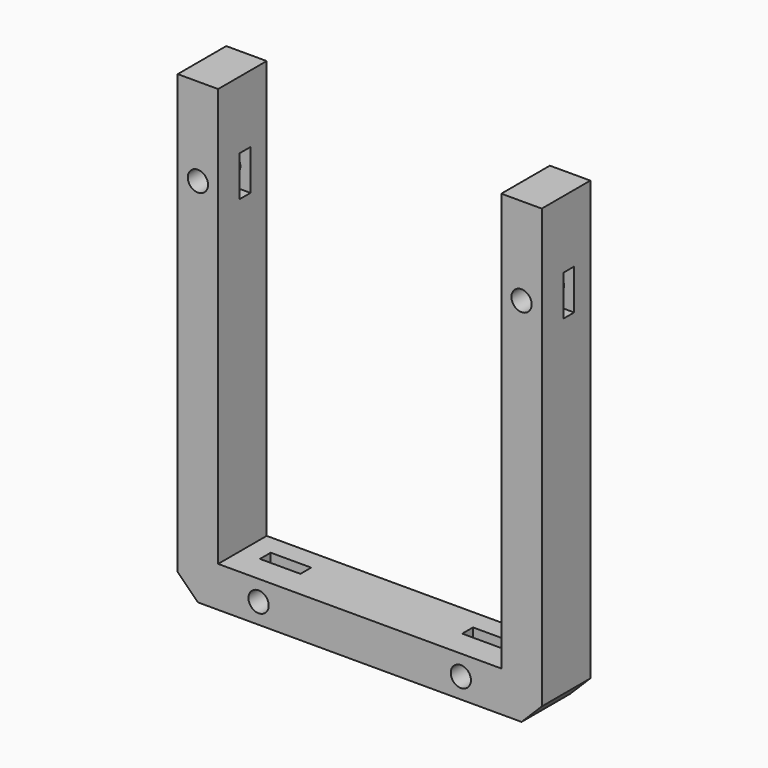
from build123d import *

# Parameters (mm, degrees)
BOX905_W               = 6
BOX905_H               = 6
BOX905_DEPTH           = 2
BOX906_W               = 6
BOX906_H               = 6
BOX906_DEPTH           = 2
BOX907_W               = 6
BOX907_H               = 6
BOX907_DEPTH           = 2
BOX904_W               = 7
BOX904_H               = 6
BOX904_DEPTH           = 2
CYLINDER2651_R         = 1.5
CYLINDER2651_DEPTH     = 60
CYLINDER2652_R         = 1.5
CYLINDER2652_DEPTH     = 60
CYLINDER2653_R         = 1.5
CYLINDER2653_DEPTH     = 60
CYLINDER2650_R         = 1.5
CYLINDER2650_DEPTH     = 60
BOX894_W               = 42
BOX894_H               = 64
BOX894_DEPTH           = 50
BOX893_W               = 54
BOX893_H               = 68
BOX893_DEPTH           = 9
CHAMFER127_SIZE        = 3
CUT989_ROLL_ANGLE      = -90
CUT989_PLACEMENT_ANGLE = 180


with BuildPart() as krychle904:
    # Box905 → Box905 (new body)
    with BuildSketch(Plane(origin=(-18, 122, -48), x_dir=(1, 0, 0), z_dir=(0, 0, 1))):
        with Locations((3, 3)):
            Rectangle(BOX905_W, BOX905_H)
    extrude(amount=BOX905_DEPTH)


with BuildPart() as krychle905:
    # Box906 → Box906 (new body)
    with BuildSketch(Plane(origin=(21, 70, -48), x_dir=(1, 0, 0), z_dir=(0, 0, 1))):
        with Locations((3, 3)):
            Rectangle(BOX906_W, BOX906_H)
    extrude(amount=BOX906_DEPTH)


with BuildPart() as krychle906:
    # Box907 → Box907 (new body)
    with BuildSketch(Plane(origin=(12, 122, -48), x_dir=(1, 0, 0), z_dir=(0, 0, 1))):
        with Locations((3, 3)):
            Rectangle(BOX907_W, BOX907_H)
    extrude(amount=BOX907_DEPTH)


with BuildPart() as compound1179:
    # Box904 → Box904 (new body)
    with BuildSketch(Plane(origin=(-28, 70, -48), x_dir=(1, 0, 0), z_dir=(0, 0, 1))):
        with Locations((3.5, 3)):
            Rectangle(BOX904_W, BOX904_H)
    extrude(amount=BOX904_DEPTH)

    # Compound1179: union Krychle904, Krychle905, Krychle906
    add(krychle904.part)
    add(krychle905.part)
    add(krychle906.part)


with BuildPart() as compound1179_1:
    # Compound1179 placement: moved
    add(compound1179.part.moved(Location((0, 0, 118))))


with BuildPart() as obj1:
    # Cylinder2651 → Cylinder2651 (new body)
    with BuildSketch(Plane(origin=(-24, 73, -80), x_dir=(1, 0, 0), z_dir=(0, 0, 1))):
        Circle(CYLINDER2651_R)
    extrude(amount=CYLINDER2651_DEPTH)


with BuildPart() as obj2:
    # Cylinder2652 → Cylinder2652 (new body)
    with BuildSketch(Plane(origin=(-15, 125, -80), x_dir=(1, 0, 0), z_dir=(0, 0, 1))):
        Circle(CYLINDER2652_R)
    extrude(amount=CYLINDER2652_DEPTH)


with BuildPart() as obj3:
    # Cylinder2653 → Cylinder2653 (new body)
    with BuildSketch(Plane(origin=(15, 125, -80), x_dir=(1, 0, 0), z_dir=(0, 0, 1))):
        Circle(CYLINDER2653_R)
    extrude(amount=CYLINDER2653_DEPTH)


with BuildPart() as compound1172:
    # Cylinder2650 → Cylinder2650 (new body)
    with BuildSketch(Plane(origin=(24, 73, -80), x_dir=(1, 0, 0), z_dir=(0, 0, 1))):
        Circle(CYLINDER2650_R)
    extrude(amount=CYLINDER2650_DEPTH)

    # Compound1172: union obj1, obj2, obj3
    add(obj1.part)
    add(obj2.part)
    add(obj3.part)


with BuildPart() as compound1172_1:
    # Compound1172 placement: moved
    add(compound1172.part.moved(Location((0, 0, 120))))


with BuildPart() as krychle893:
    # Box894 → Box894 (new body)
    with BuildSketch(Plane(origin=(-21, 58, 40), x_dir=(1, 0, 0), z_dir=(0, 0, 1))):
        with Locations((21, 32)):
            Rectangle(BOX894_W, BOX894_H)
    extrude(amount=BOX894_DEPTH)


with BuildPart() as cut989:
    # Box893 → Box893 (new body)
    with BuildSketch(Plane(origin=(-27, 60, 76), x_dir=(1, 0, 0), z_dir=(0, 0, 1))):
        with Locations((27, 34)):
            Rectangle(BOX893_W, BOX893_H)
    extrude(amount=BOX893_DEPTH)

    # Cut978: cut Krychle893
    add(krychle893.part, mode=Mode.SUBTRACT)


with BuildPart() as cut989_1:
    # Cut978 placement: moved
    add(cut989.part.moved(Location((0, 0, -9))))

    # Chamfer127
    chamfer127_edges = [cut989_1.edges().sort_by_distance(p)[0] for p in [
        (-27, 128, 71.5),
        (27, 128, 71.5),
    ]]
    chamfer(chamfer127_edges, length=CHAMFER127_SIZE)

    # Cut979: cut Compound1172
    add(compound1172_1.part, mode=Mode.SUBTRACT)

    # Cut989: cut Compound1179
    add(compound1179_1.part, mode=Mode.SUBTRACT)


with BuildPart() as cut989_2:
    # Cut989 roll: moved
    add(cut989_1.part.rotate(Axis((0, 0, 0), (1, 0, 0)), CUT989_ROLL_ANGLE))


with BuildPart() as cut989_3:
    # Cut989 placement: moved
    add(cut989_2.part.moved(Location((0, 2, 65))).rotate(Axis((0, 2, 65), (0, 0, 1)), CUT989_PLACEMENT_ANGLE))


solid = cut989_3.part
